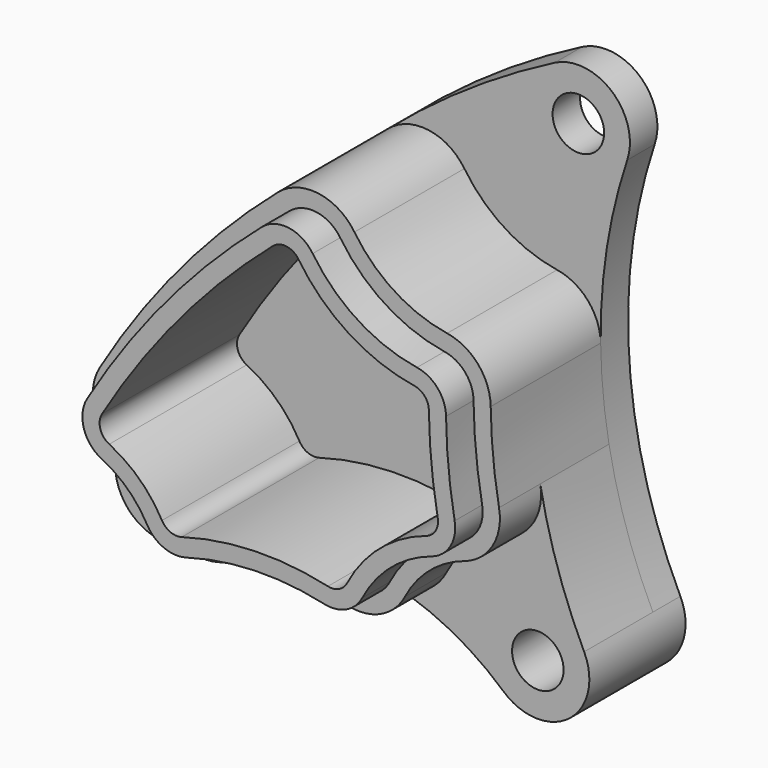
from build123d import *

# Parameters (mm, degrees)
F1_DEPTH  = 2
F3_DEPTH  = 8
F5_DEPTH  = 2
F7_DEPTH  = 5
F9_DEPTH  = 2
F11_DEPTH = 10
F12_R     = 1.5
F13_DEPTH = 12.001


with BuildPart() as f1:
    # F0 (on Front) → F1 (new body)
    with BuildSketch(Plane.XZ):
        with BuildLine():
            ThreePointArc((20.9852738604, 27.6129976553), (6.6475053794, 16.5350086475), (-2.8008963523, 1.074699783))
            ThreePointArc((-2.8008963523, 1.074699783), (-1.7031308032, -2.4696852972), (2, -2.2360679775))
            ThreePointArc((2, -2.2360679775), (12, 1.583592135), (22, -2.2360679775))
            ThreePointArc((22, -2.2360679775), (25.8098712045, -2.3925647793), (26.6958733889, 1.3161560208))
            ThreePointArc((26.6958733889, 1.3161560208), (23.7193066232, 12.5085096075), (25.2040552071, 23.994337839))
            ThreePointArc((25.2040552071, 23.994337839), (24.3121710173, 27.2230865107), (20.9852738604, 27.6129976553))
        make_face()
    extrude(amount=F1_DEPTH)

    # F2 (on face) → F3 (join)
    with BuildSketch(Plane.XZ.offset(2)):
        with BuildLine():
            ThreePointArc((2.1819579837, 4.4987842088), (3.4387063042, 3.6297794635), (4.3743364575, 2.4218134851))
            ThreePointArc((4.3743364575, 2.4218134851), (5.8533522977, 1.1022435306), (7.83244861, 0.9930166694))
            ThreePointArc((7.83244861, 0.9930166694), (11.5712509604, 1.5774633583), (15.3373412263, 1.2076187193))
            ThreePointArc((15.3373412263, 1.2076187193), (17.2681996472, 1.4114232526), (18.6698729811, 2.7549493575))
            ThreePointArc((18.6698729811, 2.7549493575), (20.1092125836, 4.5674690235), (22.1275149749, 5.7003333087))
            ThreePointArc((22.1275149749, 5.7003333087), (23.7699182337, 7.0173378758), (24.1424847183, 9.0893378054))
            ThreePointArc((24.1424847183, 9.0893378054), (23.7937370176, 11.591814757), (23.6568029492, 14.1147624204))
            ThreePointArc((23.6568029492, 14.1147624204), (22.9247140991, 16.0425380377), (21.1211981937, 17.0423396652))
            ThreePointArc((21.1211981937, 17.0423396652), (18.064820066, 18.1961838029), (15.724550358, 20.475644539))
            ThreePointArc((15.724550358, 20.475644539), (13.6368998786, 21.7724389046), (11.2806267778, 21.0739138692))
            ThreePointArc((11.2806267778, 21.0739138692), (5.5962553568, 15.3235804079), (0.9130746838, 8.7322048192))
            ThreePointArc((0.9130746838, 8.7322048192), (0.6174404831, 6.3367228484), (2.1819579837, 4.4987842088))
        make_face()
    extrude(amount=F3_DEPTH)

    # F4 (on face) → F5 (join)
    with BuildSketch(Plane.XZ.offset(2)):
        with BuildLine():
            ThreePointArc((2, -2.2360679775), (4.7345595446, -0.2933984926), (7.83244861, 0.9930166694))
            ThreePointArc((7.83244861, 0.9930166694), (5.8533522977, 1.1022435306), (4.3743364575, 2.4218134851))
            ThreePointArc((4.3743364575, 2.4218134851), (3.4387063042, 3.6297794635), (2.1819579837, 4.4987842088))
            ThreePointArc((2.1819579837, 4.4987842088), (0.6174404831, 6.3367228484), (0.9130746838, 8.7322048192))
            ThreePointArc((0.9130746838, 8.7322048192), (-1.1071325681, 4.9826165706), (-2.8008963523, 1.074699783))
            ThreePointArc((-2.8008963523, 1.074699783), (-1.7031308032, -2.4696852972), (2, -2.2360679775))
        make_face()
    extrude(amount=F5_DEPTH)

    # F6 (on face) → F7 (join)
    with BuildSketch(Plane.XZ.offset(2)):
        with BuildLine():
            ThreePointArc((26.6958733889, 1.3161560208), (25.1529407341, 5.1152911032), (24.1424847183, 9.0893378054))
            ThreePointArc((24.1424847183, 9.0893378054), (23.7699182337, 7.0173378758), (22.1275149749, 5.7003333087))
            ThreePointArc((22.1275149749, 5.7003333087), (20.1092125836, 4.5674690235), (18.6698729811, 2.7549493575))
            ThreePointArc((18.6698729811, 2.7549493575), (17.2681996472, 1.4114232526), (15.3373412263, 1.2076187193))
            ThreePointArc((15.3373412263, 1.2076187193), (18.8873733936, -0.0910903177), (22, -2.2360679775))
            ThreePointArc((22, -2.2360679775), (25.8098712045, -2.3925647793), (26.6958733889, 1.3161560208))
        make_face()
    extrude(amount=F7_DEPTH)

    # F8 (on face) → F9 (join)
    with BuildSketch(Plane.XZ.offset(10)):
        with BuildLine():
            ThreePointArc((17.7815184779, 3.2141075837), (19.4607480142, 5.3287138608), (21.8154341374, 6.6503888602))
            ThreePointArc((21.8154341374, 6.6503888602), (22.9103696432, 7.5283919049), (23.1587472996, 8.9097251913))
            ThreePointArc((23.1587472996, 8.9097251913), (22.7983746756, 11.4956180412), (22.6568761383, 14.1026639602))
            ThreePointArc((22.6568761383, 14.1026639602), (22.1688169049, 15.387847705), (20.966472968, 16.0543821233))
            ThreePointArc((20.966472968, 16.0543821233), (17.5280475743, 17.3524567782), (14.8952441528, 19.9168501063))
            ThreePointArc((14.8952441528, 19.9168501063), (13.5034771665, 20.7813796834), (11.9326284326, 20.3156963265))
            ThreePointArc((11.9326284326, 20.3156963265), (6.3619444401, 14.6803695344), (1.7724273805, 8.2208214575))
            ThreePointArc((1.7724273805, 8.2208214575), (1.5753379134, 6.623833477), (2.6183495805, 5.3985410505))
            ThreePointArc((2.6183495805, 5.3985410505), (4.1264475651, 4.3557353562), (5.249203749, 2.9061761822))
            ThreePointArc((5.249203749, 2.9061761822), (6.2352143091, 2.0264628791), (7.5546118506, 1.9536449717))
            ThreePointArc((7.5546118506, 1.9536449717), (11.5426676911, 2.5770547732), (15.5598306414, 2.1825538249))
            ThreePointArc((15.5598306414, 2.1825538249), (16.8470695887, 2.3184235138), (17.7815184779, 3.2141075837))
        make_face()
    extrude(amount=F9_DEPTH)

    # F10 (on face) → F11 (cut)
    with BuildSketch(Plane.XZ.offset(12)):
        with BuildLine():
            ThreePointArc((14.0659379899, 19.3580557023), (13.3700544612, 19.7903205129), (12.5846300541, 19.5574788225))
            ThreePointArc((12.5846300541, 19.5574788225), (7.1276334842, 14.0371586938), (2.6317800333, 7.7094381219))
            ThreePointArc((2.6317800333, 7.7094381219), (2.5332352947, 6.9109440908), (3.0547411549, 6.2982978463))
            ThreePointArc((3.0547411549, 6.2982978463), (4.8141887907, 5.0816912117), (6.1240709957, 3.3905388544))
            ThreePointArc((6.1240709957, 3.3905388544), (6.617076301, 2.9506821804), (7.2767751055, 2.9142732248))
            ThreePointArc((7.2767751055, 2.9142732248), (11.5140844233, 3.576646137), (15.7823200452, 3.1574888807))
            ThreePointArc((15.7823200452, 3.1574888807), (16.4259395517, 3.2254237286), (16.8931640202, 3.6732657865))
            ThreePointArc((16.8931640202, 3.6732657865), (18.812283478, 6.0899586591), (21.5033533158, 7.6004443631))
            ThreePointArc((21.5033533158, 7.6004443631), (22.0508210967, 8.0394459079), (22.1750099313, 8.7301125864))
            ThreePointArc((22.1750099313, 8.7301125864), (21.8030123845, 11.3994213304), (21.6569493785, 14.0905655005))
            ThreePointArc((21.6569493785, 14.0905655005), (21.4129197493, 14.7331574058), (20.8117477501, 15.066424632))
            ThreePointArc((20.8117477501, 15.066424632), (16.99127511, 16.5087297967), (14.0659379899, 19.3580557023))
        make_face()
    extrude(amount=-F11_DEPTH, mode=Mode.SUBTRACT)

    # F12 (on Front) → F13 (cut, through all)
    with BuildSketch(Plane.XZ):
        Circle(F12_R)
        with Locations((22.359, 24.946)):
            Circle(F12_R)
        with Locations((24, 0)):
            Circle(F12_R)
    extrude(amount=F13_DEPTH, mode=Mode.SUBTRACT)


solid = f1.part
